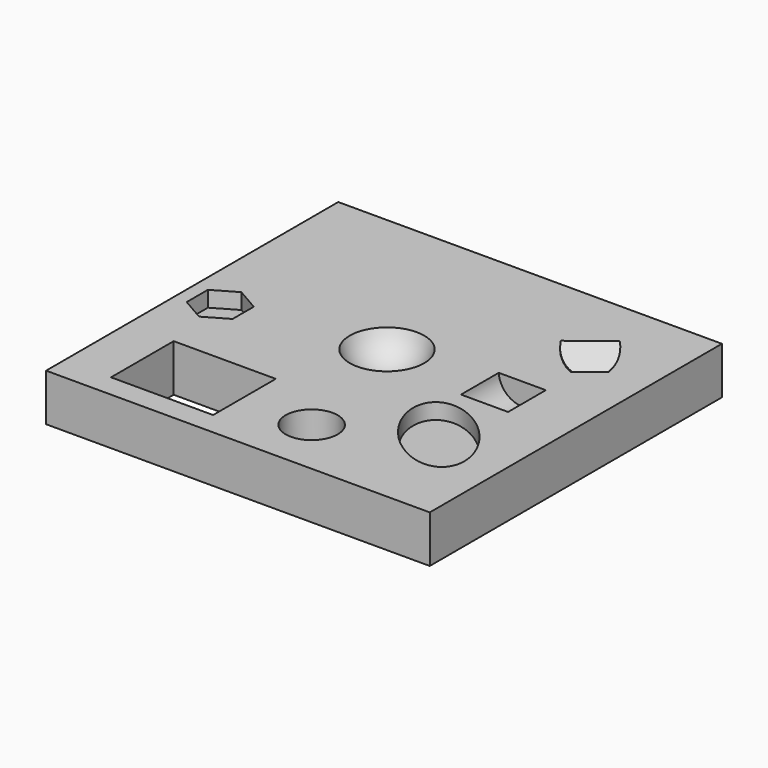
from build123d import *

# Parameters (mm, degrees)
CYLINDER001_R               = 15
CYLINDER001_DEPTH           = 30
CYLINDER001_ROLL_ANGLE      = 57.515834
CYLINDER001_PITCH_ANGLE     = -33.522488
CYLINDER001_PLACEMENT_ANGLE = 57.515834
CYLINDER_R                  = 15
CYLINDER_DEPTH              = 30
SKETCH_W                    = 243.943557
SKETCH_H                    = 232.19397
SKETCH_R                    = 16.531402
SKETCH_W_2                  = 64.902409
SKETCH_H_2                  = 49.795826
PAD_DEPTH                   = 30
POCKET_DEPTH                = 10


with BuildPart() as cylinder001:
    # Cylinder001 → Cylinder001 (new body)
    with BuildSketch(Plane.XY):
        Circle(CYLINDER001_R)
    extrude(amount=CYLINDER001_DEPTH)


with BuildPart() as cylinder001_1:
    # Cylinder001 roll: moved
    add(cylinder001.part.rotate(Axis((0, 0, 0), (1, 0, 0)), CYLINDER001_ROLL_ANGLE))


with BuildPart() as cylinder001_2:
    # Cylinder001 pitch: moved
    add(cylinder001_1.part.rotate(Axis((0, 0, 0), (0, 1, 0)), CYLINDER001_PITCH_ANGLE))


with BuildPart() as cylinder001_3:
    # Cylinder001 placement: moved
    add(cylinder001_2.part.moved(Location((74, 69, 27))).rotate(Axis((74, 69, 27), (0, 0, 1)), CYLINDER001_PLACEMENT_ANGLE))


with BuildPart() as cylinder:
    # Cylinder → Cylinder (new body)
    with BuildSketch(Plane(origin=(74, 15, 31), x_dir=(1, 0, 0), z_dir=(0, -1, 0))):
        Circle(CYLINDER_R)
    extrude(amount=CYLINDER_DEPTH)


with BuildPart() as sphere:
    # Sphere → Sphere (revolve)
    with BuildSketch(Plane(origin=(0, 0, 38), x_dir=(1, 0, 0), z_dir=(0, -1, 0))):
        with BuildLine():
            ThreePointArc((0, -25), (25, 0), (0, 25))
            Line((0, 25), (0, -25))
        make_face()
    revolve(axis=Axis((0, 0, 38), (0, 0, 1)))


with BuildPart() as model_cut002:
    # Sketch → Pad (new body)
    with BuildSketch(Plane.XY):
        with Locations((4.089295, -7.505798)):
            Rectangle(SKETCH_W, SKETCH_H)
        with Locations((21.433901, -86.675552)):
            Circle(SKETCH_R, mode=Mode.SUBTRACT)
        with Locations((-55.777578, -84.157782)):
            Rectangle(SKETCH_W_2, SKETCH_H_2, mode=Mode.SUBTRACT)
    extrude(amount=PAD_DEPTH)

    # Sketch001 (on Face11 of Pad) → Pocket (cut)
    with BuildSketch(Plane.XY.offset(30)):
        Polygon((-80.299553, -22.364969), (-80.304949, -5.533931), (-94.883753, 2.876915), (-109.457161, -5.543277), (-109.451765, -22.374315), (-94.872961, -30.785161), align=None)
        with BuildLine():
            add(Edge.make_bspline(
                [(100.814049, -81.240913), (126.605952, -57.691792), (78.384447, -30.776448), (30.162942, -3.861103), (52.592544, -54.325568), (75.022146, -104.790034), (100.814049, -81.240913)],
                knots=[0, 0, 0, 2.094395, 2.094395, 4.18879, 4.18879, 6.283185, 6.283185, 6.283185], degree=2, weights=[1, 0.5, 1, 0.5, 1, 0.5, 1]))
        make_face()
    extrude(amount=-POCKET_DEPTH, mode=Mode.SUBTRACT)

    # Cut: cut Sphere
    add(sphere.part, mode=Mode.SUBTRACT)

    # Cut001: cut Cylinder
    add(cylinder.part, mode=Mode.SUBTRACT)

    # Cut002: cut Cylinder001
    add(cylinder001_3.part, mode=Mode.SUBTRACT)


solid = model_cut002.part
